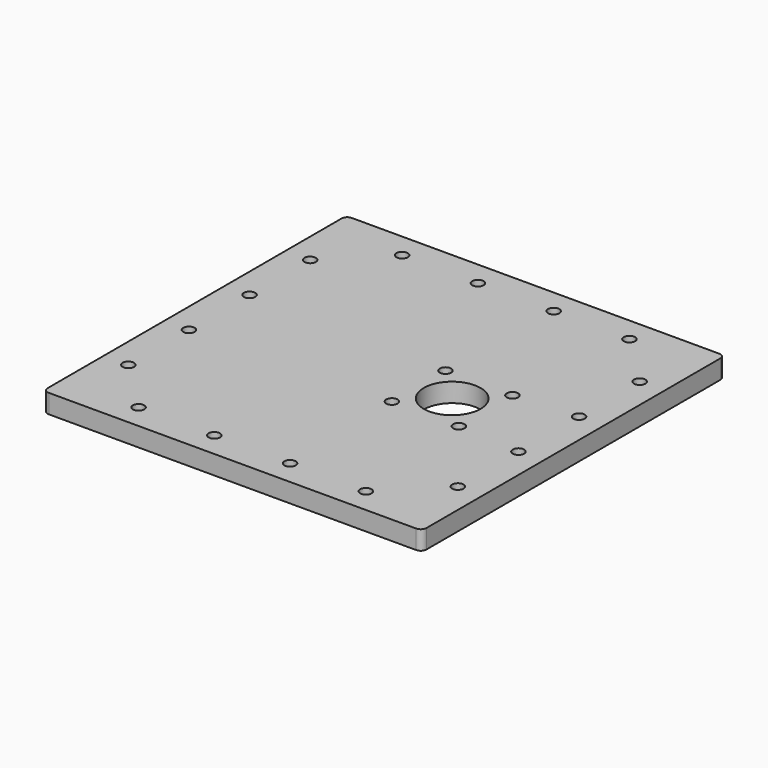
from build123d import *

# Parameters (mm, degrees)
SKETCH_W   = 200
SKETCH_H   = 200
SKETCH_R   = 15
SKETCH_R_2 = 3
PAD_DEPTH  = 10
FILLET_R   = 3


with BuildPart() as part:
    # Sketch → Pad (new body)
    with BuildSketch(Plane.XY):
        with Locations((100, 100)):
            Rectangle(SKETCH_W, SKETCH_H)
        with Locations((136, 100)):
            Circle(SKETCH_R, mode=Mode.SUBTRACT)
        with Locations((118.32233, 117.67767)):
            Circle(SKETCH_R_2, mode=Mode.SUBTRACT)
        with Locations((153.67767, 117.67767)):
            Circle(SKETCH_R_2, mode=Mode.SUBTRACT)
        with Locations((118.32233, 82.32233)):
            Circle(SKETCH_R_2, mode=Mode.SUBTRACT)
        with Locations((153.67767, 82.32233)):
            Circle(SKETCH_R_2, mode=Mode.SUBTRACT)
        with Locations((40, 13)):
            Circle(SKETCH_R_2, mode=Mode.SUBTRACT)
        with Locations((160, 13)):
            Circle(SKETCH_R_2, mode=Mode.SUBTRACT)
        with Locations((80, 13)):
            Circle(SKETCH_R_2, mode=Mode.SUBTRACT)
        with Locations((120, 13)):
            Circle(SKETCH_R_2, mode=Mode.SUBTRACT)
        with Locations((40, 187)):
            Circle(SKETCH_R_2, mode=Mode.SUBTRACT)
        with Locations((80, 187)):
            Circle(SKETCH_R_2, mode=Mode.SUBTRACT)
        with Locations((120, 187)):
            Circle(SKETCH_R_2, mode=Mode.SUBTRACT)
        with Locations((160, 187)):
            Circle(SKETCH_R_2, mode=Mode.SUBTRACT)
        with Locations((13, 160)):
            Circle(SKETCH_R_2, mode=Mode.SUBTRACT)
        with Locations((13, 120)):
            Circle(SKETCH_R_2, mode=Mode.SUBTRACT)
        with Locations((13, 80)):
            Circle(SKETCH_R_2, mode=Mode.SUBTRACT)
        with Locations((13, 40)):
            Circle(SKETCH_R_2, mode=Mode.SUBTRACT)
        with Locations((187, 160)):
            Circle(SKETCH_R_2, mode=Mode.SUBTRACT)
        with Locations((187, 120)):
            Circle(SKETCH_R_2, mode=Mode.SUBTRACT)
        with Locations((187, 80)):
            Circle(SKETCH_R_2, mode=Mode.SUBTRACT)
        with Locations((187, 40)):
            Circle(SKETCH_R_2, mode=Mode.SUBTRACT)
    extrude(amount=PAD_DEPTH)

    # Fillet
    fillet_edges = [part.edges().sort_by_distance(p)[0] for p in [
        (0, 0, 5),
        (200, 0, 5),
        (0, 200, 5),
        (200, 200, 5),
    ]]
    fillet(fillet_edges, radius=FILLET_R)


solid = part.part
